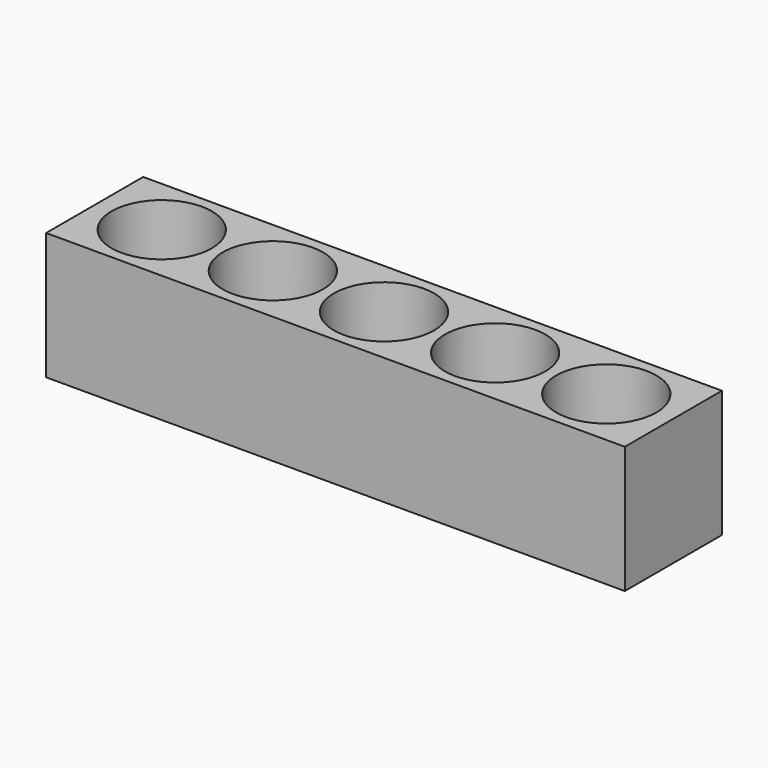
from build123d import *

# Parameters (mm, degrees)
F0_W     = 520.7
F0_H     = 109.22
F0_R     = 45.1104
F1_DEPTH = 114.3


with BuildPart() as f1:
    # F0 (on Top) → F1 (new body)
    with BuildSketch(Plane.XY):
        with Locations((24.76754, 0)):
            Rectangle(F0_W, F0_H)
        with Locations((-175.23206, 0)):
            Circle(F0_R, mode=Mode.SUBTRACT)
        with Locations((-75.23226, 0)):
            Circle(F0_R, mode=Mode.SUBTRACT)
        with Locations((24.76754, 0)):
            Circle(F0_R, mode=Mode.SUBTRACT)
        with Locations((124.76734, 0)):
            Circle(F0_R, mode=Mode.SUBTRACT)
        with Locations((224.76714, 0)):
            Circle(F0_R, mode=Mode.SUBTRACT)
    extrude(amount=F1_DEPTH)


solid = f1.part
